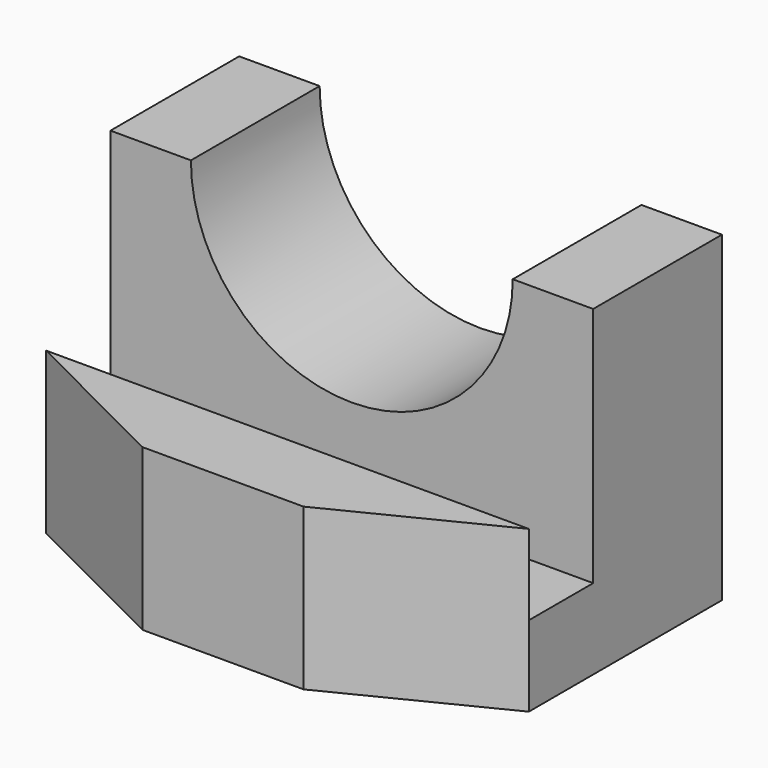
from build123d import *

# Parameters (mm, degrees)
F1_DEPTH = 30
F3_DEPTH = 20.001
F5_DEPTH = 20.001


with BuildPart() as f1:
    # F0 (on Right) → F1 (new body, symmetric)
    with BuildSketch(Plane.YZ):
        Polygon((0, 20), (0, 0), (40, 0), (40, 40), (20, 40), (20, 10), (10, 10), (10, 20), align=None)
    extrude(amount=F1_DEPTH, both=True)

    # F2 (on face) → F3 (cut, through all)
    with BuildSketch(Plane.XY.offset(20)):
        Polygon((-10, 0), (-30, 10), (-30, 0), align=None)
        Polygon((30, 0), (30, 10), (10, 0), align=None)
    extrude(amount=-F3_DEPTH, mode=Mode.SUBTRACT)

    # F4 (on face) → F5 (cut, through all)
    with BuildSketch(Plane.XZ.offset(-20)):
        with BuildLine():
            Line((20, 40), (-20, 40))
            ThreePointArc((-20, 40), (0, 20), (20, 40))
        make_face()
    extrude(amount=-F5_DEPTH, mode=Mode.SUBTRACT)


solid = f1.part
